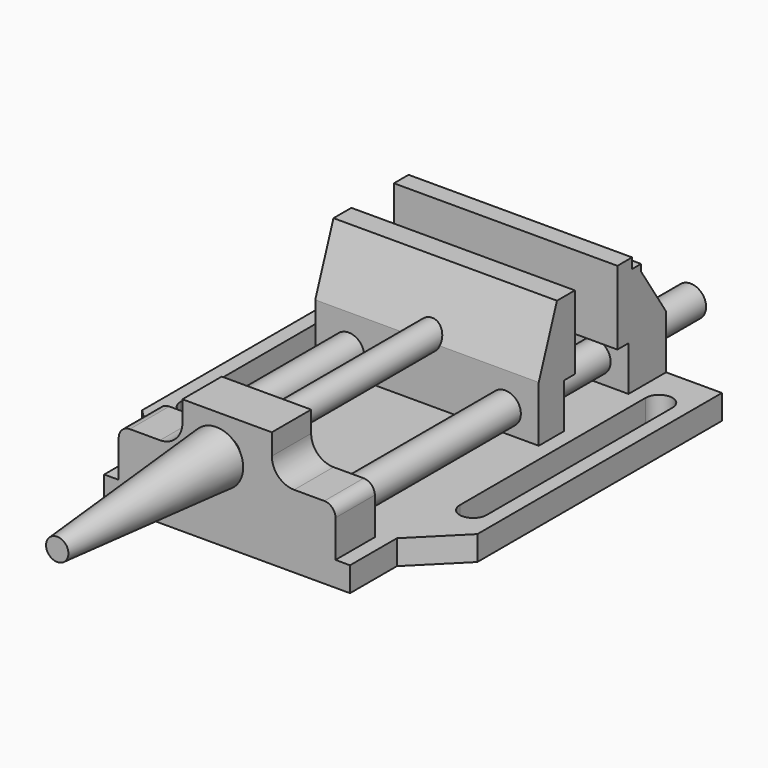
from build123d import *

# Parameters (mm, degrees)
F1_DEPTH  = 11
F3_R      = 6
F4_DEPTH  = 22
F7_DEPTH  = 100
F8_R      = 6.95
F9_DEPTH  = 32.4
F10_DEPTH = 183
F12_W     = 115.383207798
F12_H     = 6
F15_DEPTH = 100


with BuildPart() as f1:
    # F0 (on Top) → F1 (new body)
    with BuildSketch(Plane.XY):
        Polygon((-55, 0), (0, 0), (0, 26.2), (20, 46.2), (20, 183), (-55, 183), align=None)
        with BuildLine():
            Line((13.5, 163.5), (13.5, 59.5))
            ThreePointArc((13.5, 59.5), (7.5, 53.5), (1.5, 59.5))
            Line((1.5, 59.5), (1.5, 163.5))
            ThreePointArc((1.5, 163.5), (7.5, 169.5), (13.5, 163.5))
        make_face(mode=Mode.SUBTRACT)
    extrude(amount=F1_DEPTH)

    # F2: F1 across face


with BuildPart() as f1_1:
    add(f1.part)
    add(f1.part.mirror(Plane(origin=(-55, 91.5, 5.5), x_dir=(0, -1, 0), z_dir=(-1, 0, 0))))

    # F3 (on face) → F4 (join)
    with BuildSketch(Plane.XZ):
        with BuildLine():
            Line((-103.5, 27.6), (-103.5, 11))
            Line((-103.5, 11), (-6.5, 11))
            Line((-6.5, 11), (-6.5, 27.6))
            ThreePointArc((-6.5, 27.6), (-7.9644660941, 31.1355339059), (-11.5, 32.6))
            Line((-11.5, 32.6), (-25, 32.6))
            ThreePointArc((-25, 32.6), (-32.0710678119, 35.5289321881), (-35, 42.6))
            Line((-35, 42.6), (-35, 52))
            Line((-35, 52), (-75, 52))
            Line((-75, 52), (-75, 42.6))
            ThreePointArc((-75, 42.6), (-77.9289321881, 35.5289321881), (-85, 32.6))
            Line((-85, 32.6), (-98.5, 32.6))
            ThreePointArc((-98.5, 32.6), (-102.0355339059, 31.1355339059), (-103.5, 27.6))
        make_face()
        with Locations((-55, 38)):
            Circle(F3_R, mode=Mode.SUBTRACT)
    extrude(amount=-F4_DEPTH)

    # F6 (on offset) → F7 (join)
    with BuildSketch(Plane.YZ.offset(-5)):
        Polygon((162, 0), (183, 0), (183, 35), (169, 56.4), (169, 59.4), (164, 59.4), (164, 64), (155.8, 64), (155.8, 31), (162, 31), align=None)
    extrude(amount=-F7_DEPTH)

    # F8 (on face) → F9 (join)
    with BuildSketch(Plane(origin=(0, 183, 0), x_dir=(-1, 0, 0), z_dir=(0, 1, 0))):
        with Locations((19.95, 21)):
            Circle(F8_R)
        with Locations((90.05, 21)):
            Circle(F8_R)
    extrude(amount=F9_DEPTH)

    # F8 (on face) → F10 (join)
    with BuildSketch(Plane(origin=(0, 183, 0), x_dir=(-1, 0, 0), z_dir=(0, 1, 0))):
        with Locations((19.95, 21)):
            Circle(F8_R)
        with Locations((90.05, 21)):
            Circle(F8_R)
    extrude(amount=-F10_DEPTH)

    # F14 (on face) → F15 (join)
    with BuildSketch(Plane.YZ.offset(-5)):
        Polygon((132, 31), (132, 64), (122, 64), (111.8, 35.9757303216), (111.8, 11), (125.8, 11), (125.8, 31), align=None)
    extrude(amount=-F15_DEPTH)


with BuildPart() as f13:
    # F12 (on offset) → F13 (revolve)
    with BuildSketch(Plane.YZ.offset(-55)):
        Polygon((0, 32), (0, 38), (-95, 38), (-95, 33), (-6, 26), (-6, 32), align=None)
        with Locations((57.691603899, 35)):
            Rectangle(F12_W, F12_H)
    revolve(axis=Axis((-55, -47.5, 38), (0, -1, 0)))


solid = Compound([f1_1.part, f13.part])
